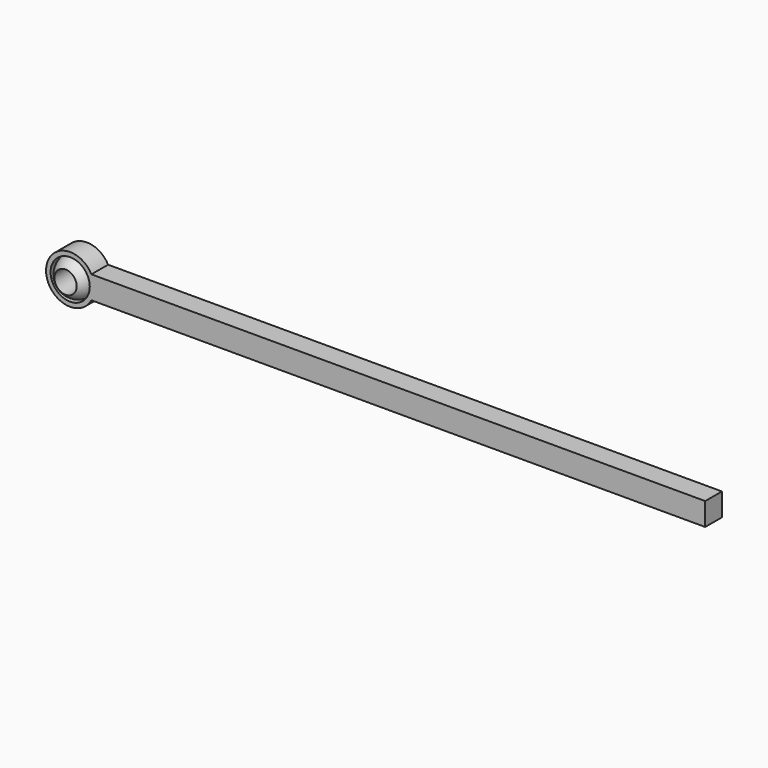
from build123d import *

# Parameters (mm, degrees)
F0_R          = 1.9004449212
F1_DEPTH      = 1.905
F1_DEPTH_BACK = 1.905
F2_R          = 1.8796
F3_R          = 1.0840595421
F4_DEPTH      = 1.905
F4_DEPTH_BACK = 1.905
F5_R          = 2.348007006
F5_R_2        = 1.9090894229
F6_DEPTH      = 1.016
F6_DEPTH_BACK = 1.016
F8_DEPTH      = 2.032
F9_W          = 2.032
F9_H          = 2.221398754
F10_DEPTH     = 55.88


with BuildPart() as f1:
    # F0 (on Front) → F1 (new body, two sides)
    with BuildSketch(Plane.XZ) as f1_sk:
        Circle(F0_R)
    extrude(amount=F1_DEPTH)
    extrude(f1_sk.sketch, amount=-F1_DEPTH_BACK)

    # F2
    f2_edges = [f1.edges().sort_by_distance(p)[0] for p in [
        (-1.900445, -1.905, 0),
        (-1.900445, 1.905, 0),
    ]]
    fillet(f2_edges, radius=F2_R)

    # F3 (on Front) → F4 (cut, two sides)
    with BuildSketch(Plane.XZ) as f4_sk:
        Circle(F3_R)
    extrude(amount=-F4_DEPTH, mode=Mode.SUBTRACT)
    extrude(f4_sk.sketch, amount=F4_DEPTH_BACK, mode=Mode.SUBTRACT)


with BuildPart() as f6:
    # F5 (on Front) → F6 (new body, two sides)
    with BuildSketch(Plane.XZ) as f6_sk:
        Circle(F5_R)
        Circle(F5_R_2, mode=Mode.SUBTRACT)
    extrude(amount=F6_DEPTH)
    extrude(f6_sk.sketch, amount=-F6_DEPTH_BACK)

    # F7 (on face) → F8 (join)
    with BuildSketch(Plane.XZ.offset(1.016)):
        with BuildLine():
            Line((2.068691324, -1.110699377), (5.9301392175, -1.110699377))
            Line((5.9301392175, -1.110699377), (5.9301392175, 1.110699377))
            Line((5.9301392175, 1.110699377), (2.068691324, 1.110699377))
            ThreePointArc((2.068691324, 1.110699377), (2.2771076635, 0.5726408902), (2.348007006, 0))
            ThreePointArc((2.348007006, 0), (2.2771076635, -0.5726408902), (2.068691324, -1.110699377))
        make_face()
        with BuildLine():
            Line((2.0119971596, -1.110699377), (2.068691324, -1.110699377))
            ThreePointArc((2.068691324, -1.110699377), (2.2771076635, -0.5726408902), (2.348007006, 0))
            ThreePointArc((2.348007006, 0), (2.2771076635, 0.5726408902), (2.068691324, 1.110699377))
            Line((2.068691324, 1.110699377), (2.0119971596, 1.110699377))
            Line((2.0119971596, 1.110699377), (2.0119971596, -1.110699377))
        make_face()
    extrude(amount=-F8_DEPTH)

    # F9 (on face) → F10 (join)
    with BuildSketch(Plane.YZ.offset(5.9301392175)):
        Rectangle(F9_W, F9_H)
    extrude(amount=F10_DEPTH)


solid = Compound([f1.part, f6.part])
